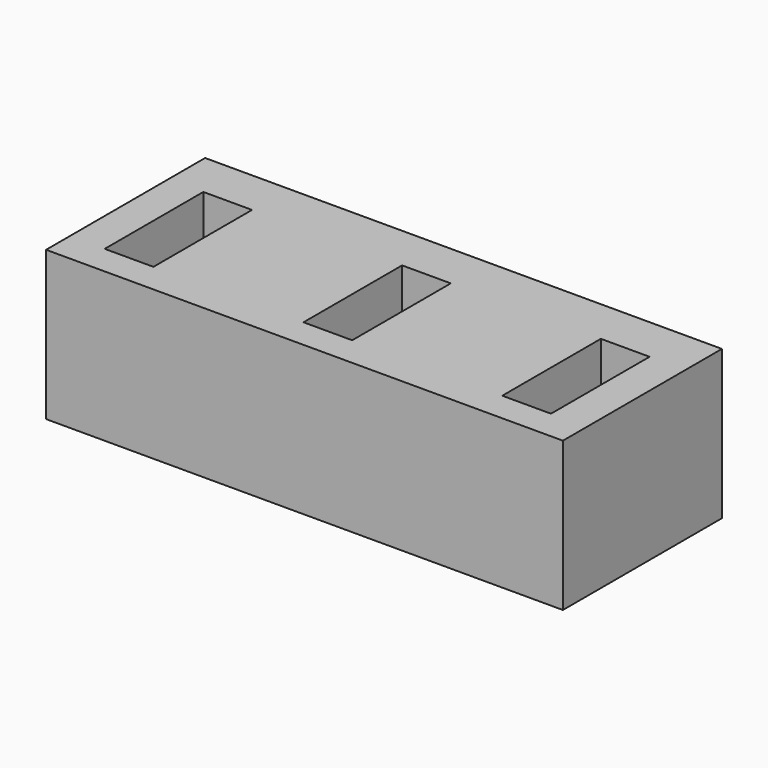
from build123d import *

# Parameters (mm, degrees)
BOX003_W     = 4.9
BOX003_H     = 12.4
BOX003_DEPTH = 10
BOX002_W     = 4.9
BOX002_H     = 12.4
BOX002_DEPTH = 10
BOX001_W     = 4.9
BOX001_H     = 12.4
BOX001_DEPTH = 10
BOX_W        = 52
BOX_H        = 20
BOX_DEPTH    = 15


with BuildPart() as cube003:
    # Box003 → Box003 (new body)
    with BuildSketch(Plane(origin=(43.5, 3, 6), x_dir=(1, 0, 0), z_dir=(0, 0, 1))):
        with Locations((2.45, 6.2)):
            Rectangle(BOX003_W, BOX003_H)
    extrude(amount=BOX003_DEPTH)


with BuildPart() as cube002:
    # Box002 → Box002 (new body)
    with BuildSketch(Plane(origin=(23.5, 3, 6), x_dir=(1, 0, 0), z_dir=(0, 0, 1))):
        with Locations((2.45, 6.2)):
            Rectangle(BOX002_W, BOX002_H)
    extrude(amount=BOX002_DEPTH)


with BuildPart() as cube001:
    # Box001 → Box001 (new body)
    with BuildSketch(Plane(origin=(3.5, 3, 6), x_dir=(1, 0, 0), z_dir=(0, 0, 1))):
        with Locations((2.45, 6.2)):
            Rectangle(BOX001_W, BOX001_H)
    extrude(amount=BOX001_DEPTH)


with BuildPart() as cut002:
    # Box → Box (new body)
    with BuildSketch(Plane.XY):
        with Locations((26, 10)):
            Rectangle(BOX_W, BOX_H)
    extrude(amount=BOX_DEPTH)

    # Cut: cut Cube001
    add(cube001.part, mode=Mode.SUBTRACT)

    # Cut001: cut Cube002
    add(cube002.part, mode=Mode.SUBTRACT)

    # Cut002: cut Cube003
    add(cube003.part, mode=Mode.SUBTRACT)


solid = cut002.part
